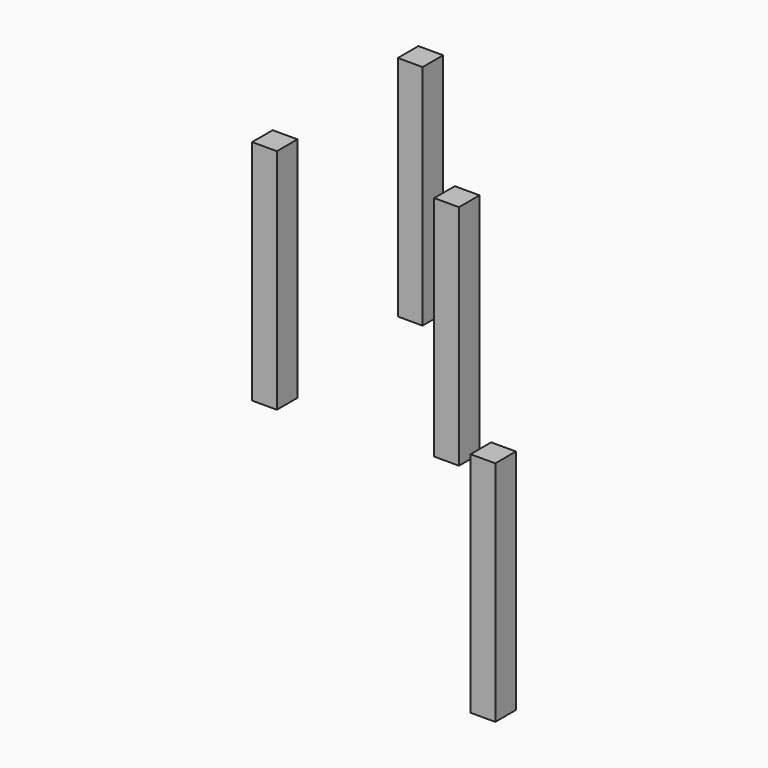
from build123d import *

# Parameters (mm, degrees)
F0_W          = 41.419923
F0_H          = 43.076754
F1_DEPTH      = 355.6
F1_DEPTH_BACK = 25.4


with BuildPart() as f1:
    # F0 (on Top) → F1 (new body, two sides)
    with BuildSketch(Plane.XY) as f1_sk:
        with Locations((-331.037491, 265.798688)):
            Rectangle(F0_W, F0_H)
    extrude(amount=F1_DEPTH)
    extrude(f1_sk.sketch, amount=-F1_DEPTH_BACK)


with BuildPart() as f2_1:
    # F2: copy of F1
    add(f1.part.moved(Location((0, 304.8, 0))))


with BuildPart() as f3_1:
    # F3: copy of F1
    add(f1.part.moved(Location((304.8, 0, 16.61769))))


with BuildPart() as f4_1:
    # F4: copy of F1
    add(f1.part.moved(Location((365.61915, 0, -341.05004))))


solid = Compound([f1.part, f2_1.part, f3_1.part, f4_1.part])
